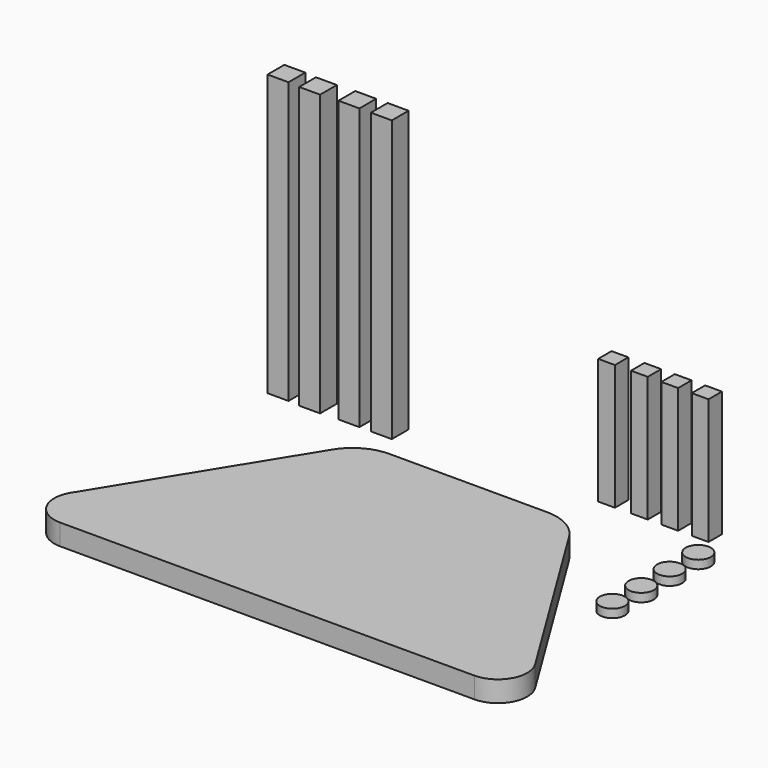
from build123d import *

# Parameters (mm, degrees)
F1_DEPTH = 6.35
F2_W     = 6.35
F2_H     = 6.35
F3_DEPTH = 85.09
F4_W     = 5.08
F4_H     = 5.08
F5_DEPTH = 38.1
F6_R     = 3.81
F7_DEPTH = 2.54


with BuildPart() as f1:
    # F0 (on Top) → F1 (new body)
    with BuildSketch(Plane.XY):
        with BuildLine():
            Line((-31.75, -38.1), (-31.75, 35.721134))
            ThreePointArc((-31.75, 35.721134), (-34.024133, 33.810703), (-35.843005, 31.462695))
            Line((-35.843005, 31.462695), (-70.380306, -24.543739))
            ThreePointArc((-70.380306, -24.543739), (-70.575972, -33.542958), (-62.813397, -38.1))
            Line((-62.813397, -38.1), (-31.75, -38.1))
        make_face()
        with BuildLine():
            Line((23.952148, 38.1), (-23.952148, 38.1))
            ThreePointArc((-23.952148, 38.1), (-28.028467, 37.492055), (-31.75, 35.721134))
            Line((-31.75, 35.721134), (-31.75, -38.1))
            Line((-31.75, -38.1), (31.75, -38.1))
            Line((31.75, -38.1), (31.75, 35.721134))
            ThreePointArc((31.75, 35.721134), (28.028467, 37.492055), (23.952148, 38.1))
        make_face()
        with BuildLine():
            ThreePointArc((35.843005, 31.462695), (34.024133, 33.810703), (31.75, 35.721134))
            Line((31.75, 35.721134), (31.75, -38.1))
            Line((31.75, -38.1), (62.813397, -38.1))
            ThreePointArc((62.813397, -38.1), (70.575972, -33.542958), (70.380306, -24.543739))
            Line((70.380306, -24.543739), (35.843005, 31.462695))
        make_face()
    extrude(amount=F1_DEPTH)


with BuildPart() as f3:
    # F2 (on Top) → F3 (new body)
    with BuildSketch(Plane.XY):
        with Locations((-60.506605, 56.752465)):
            Rectangle(F2_W, F2_H)
        with Locations((-70.335092, 57.059608)):
            Rectangle(F2_W, F2_H)
        with Locations((-48.835281, 57.059608)):
            Rectangle(F2_W, F2_H)
        with Locations((-39.006799, 57.059604)):
            Rectangle(F2_W, F2_H)
    extrude(amount=F3_DEPTH)


with BuildPart() as f5:
    # F4 (on Top) → F5 (new body)
    with BuildSketch(Plane.XY):
        with Locations((34.706831, 62.079684)):
            Rectangle(F4_W, F4_H)
        with Locations((24.857627, 61.953129)):
            Rectangle(F4_W, F4_H)
        with Locations((43.921046, 62.079688)):
            Rectangle(F4_W, F4_H)
        with Locations((53.135239, 62.07968)):
            Rectangle(F4_W, F4_H)
    extrude(amount=F5_DEPTH)


with BuildPart() as f7:
    # F6 (on Top) → F7 (new body)
    with BuildSketch(Plane.XY):
        with Locations((60.133377, 50.080232)):
            Circle(F6_R)
        with Locations((60.199466, 39.160367)):
            Circle(F6_R)
        with Locations((60.199466, 28.386087)):
            Circle(F6_R)
        with Locations((59.927428, 17.783714)):
            Circle(F6_R)
    extrude(amount=F7_DEPTH)


solid = Compound([f1.part, f3.part, f5.part, f7.part])
